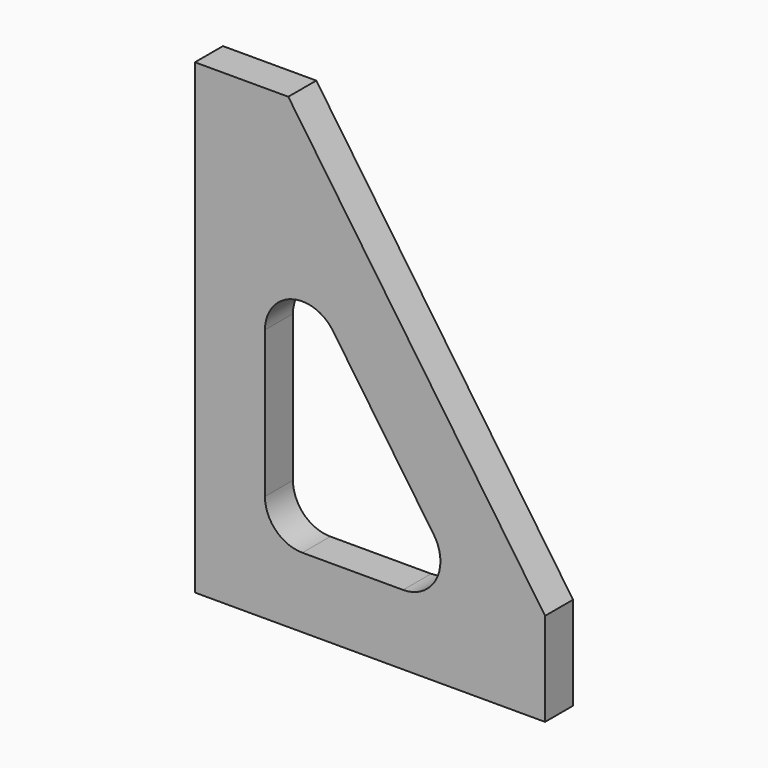
from build123d import *

# Parameters (mm, degrees)
F1_DEPTH = 9.525
F3_DEPTH = 9.526
F4_R     = 10.16
F5_R     = 3.175
F6_DEPTH = 12.7
F7_R     = 3.175
F8_DEPTH = 12.7


with BuildPart() as f1:
    # F0 (on Front) → F1 (new body)
    with BuildSketch(Plane.XZ):
        Polygon((-50.537063, 64.119838), (-75.937063, 64.119838), (-75.937063, -62.880162), (19.312937, -62.880162), (19.312937, -37.480162), align=None)
    extrude(amount=F1_DEPTH)

    # F2 (on face) → F3 (cut, through all)
    with BuildSketch(Plane.XZ.offset(9.525)):
        Polygon((0, -43.830162), (-56.887063, 38.914657), (-56.887063, -43.830162), align=None)
    extrude(amount=-F3_DEPTH, mode=Mode.SUBTRACT)

    # F4
    f4_edges = [f1.edges().sort_by_distance(p)[0] for p in [
        (-56.887063, -4.7625, -43.830162),
        (0, -4.7625, -43.830162),
        (-56.887063, -4.7625, 38.914657),
    ]]
    fillet(f4_edges, radius=F4_R)

    # F5 (on face) → F6 (cut)
    with BuildSketch(Plane(origin=(0, 0, -62.880162), x_dir=(1, 0, 0), z_dir=(0, 0, -1))):
        with Locations((-56.887063, 4.7752)):
            Circle(F5_R)
        with Locations((-28.312063, 4.7498)):
            Circle(F5_R)
        with Locations((0.262937, 4.7752)):
            Circle(F5_R)
    extrude(amount=-F6_DEPTH, mode=Mode.SUBTRACT)

    # F7 (on face) → F8 (cut)
    with BuildSketch(Plane(origin=(-75.937063, 0, 0), x_dir=(0, -1, 0), z_dir=(-1, 0, 0))):
        with Locations((4.7498, 45.069838)):
            Circle(F7_R)
        with Locations((4.7498, 0.619838)):
            Circle(F7_R)
        with Locations((4.7498, -43.830162)):
            Circle(F7_R)
    extrude(amount=-F8_DEPTH, mode=Mode.SUBTRACT)


solid = f1.part
